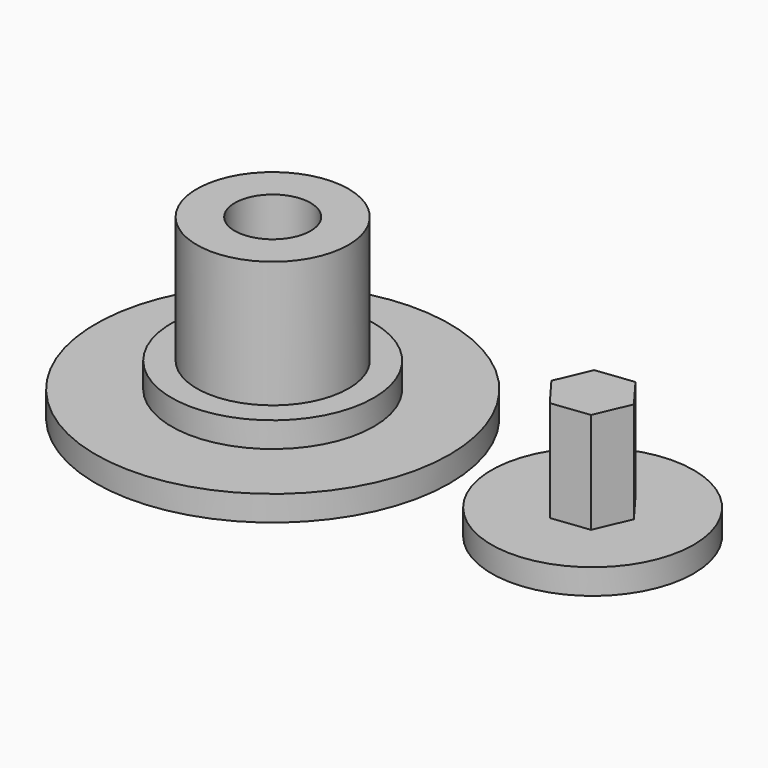
from build123d import *

# Parameters (mm, degrees)
F0_R     = 7
F0_R_2   = 4
F1_DEPTH = 1
F0_R_3   = 3
F2_DEPTH = 2
F0_R_4   = 1.5
F3_DEPTH = 7
F4_R     = 4
F5_DEPTH = 1
F6_DEPTH = 5


with BuildPart() as f1:
    # F0 (on Top) → F1 (new body)
    with BuildSketch(Plane.XY):
        Circle(F0_R)
        Circle(F0_R_2, mode=Mode.SUBTRACT)
        Circle(F0_R)
        Circle(F0_R_2, mode=Mode.SUBTRACT)
    extrude(amount=F1_DEPTH)

    # F0 (on Top) → F2 (join)
    with BuildSketch(Plane.XY):
        Circle(F0_R_2)
        Circle(F0_R_3, mode=Mode.SUBTRACT)
    extrude(amount=F2_DEPTH)

    # F0 (on Top) → F3 (join)
    with BuildSketch(Plane.XY):
        Circle(F0_R_3)
        Circle(F0_R_4, mode=Mode.SUBTRACT)
    extrude(amount=F3_DEPTH)


with BuildPart() as f5:
    # F4 (on Top) → F5 (new body)
    with BuildSketch(Plane.XY):
        with Locations((12.652777, 0)):
            Circle(F4_R)
        Polygon((14.142355, 0.176514), (13.550432, -1.201755), (12.060854, -1.37827), (11.163199, -0.176514), (11.755122, 1.201755), (13.2447, 1.37827), align=None, mode=Mode.SUBTRACT)
    extrude(amount=F5_DEPTH)

    # F4 (on Top) → F6 (join)
    with BuildSketch(Plane.XY):
        Polygon((12.060854, -1.37827), (13.550432, -1.201755), (14.142355, 0.176514), (13.2447, 1.37827), (11.755122, 1.201755), (11.163199, -0.176514), align=None)
    extrude(amount=F6_DEPTH)


solid = Compound([f1.part, f5.part])
